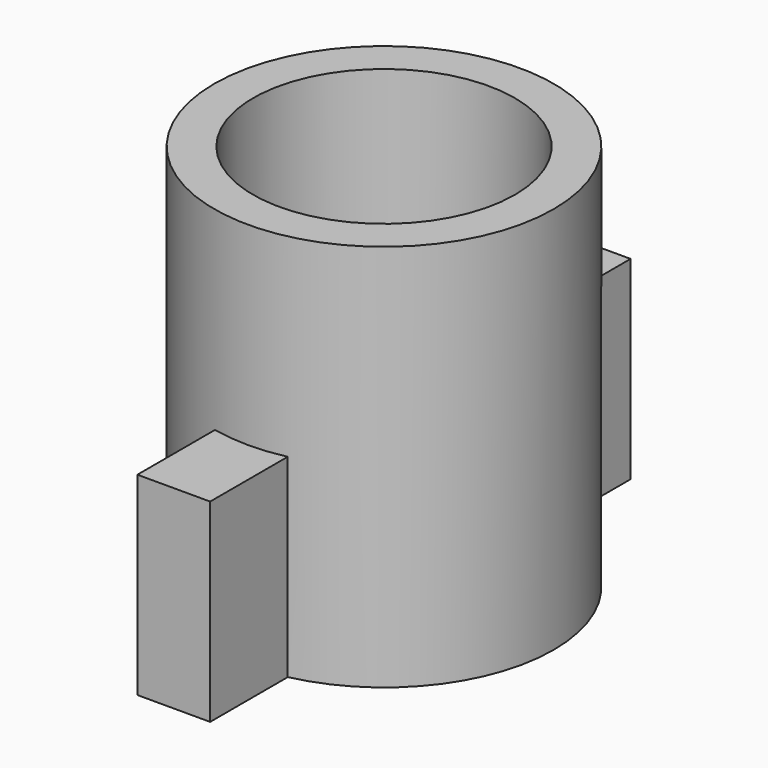
from build123d import *

# Parameters (mm, degrees)
F0_R     = 3.5
F0_R_2   = 2.7
F1_DEPTH = 8
F3_W     = 1.5
F3_H     = 2
F4_DEPTH = 4


with BuildPart() as f1:
    # F0 (on Top) → F1 (new body)
    with BuildSketch(Plane.XY):
        Circle(F0_R)
        Circle(F0_R_2, mode=Mode.SUBTRACT)
    extrude(amount=F1_DEPTH)

    # F3 (on offset) → F4 (join, through all)
    with BuildSketch(Plane.XY.offset(4)):
        with Locations((0, 4.418699)):
            Rectangle(F3_W, F3_H)
        with Locations((0, -4.418699)):
            Rectangle(F3_W, F3_H)
    extrude(amount=-F4_DEPTH)


solid = f1.part
